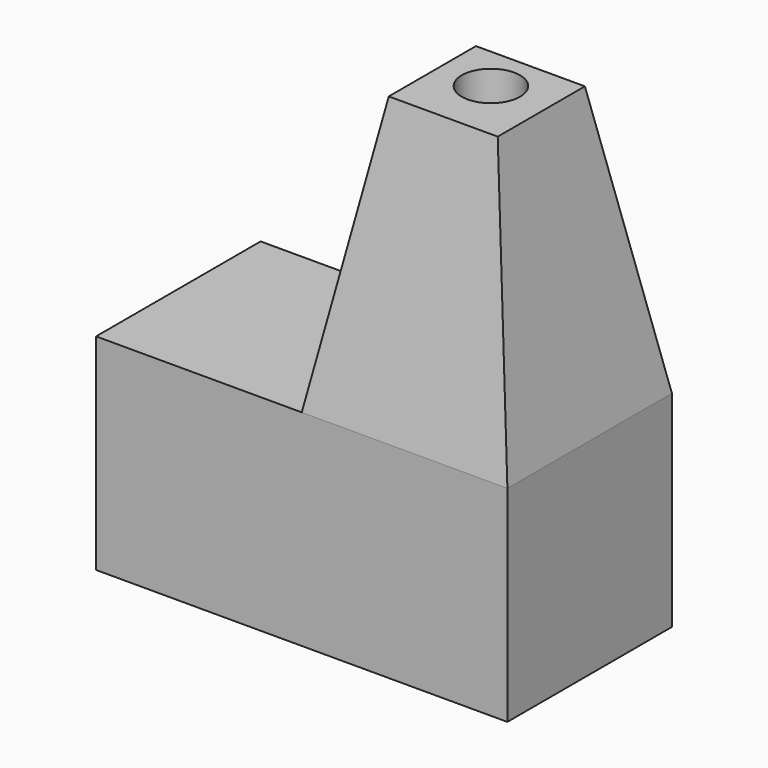
from build123d import *

# Parameters (mm, degrees)
F0_W     = 60
F0_H     = 30
F1_DEPTH = 30
F2_W     = 30
F2_H     = 30
F3_DEPTH = 40
F3_TAPER = 10
F4_R     = 4.2494021433
F5_DEPTH = 40


with BuildPart() as f1:
    # F0 (on Front) → F1 (new body)
    with BuildSketch(Plane.XZ):
        Rectangle(F0_W, F0_H)
    extrude(amount=F1_DEPTH)

    # F2 (on face) → F3 (join)
    with BuildSketch(Plane.XY.offset(15)):
        with Locations((15, -15)):
            Rectangle(F2_W, F2_H)
    extrude(amount=F3_DEPTH, taper=F3_TAPER)

    # F4 (on face) → F5 (cut)
    with BuildSketch(Plane.XY.offset(55)):
        with Locations((14.5341921598, -13.6707741767)):
            Circle(F4_R)
    extrude(amount=-F5_DEPTH, mode=Mode.SUBTRACT)


solid = f1.part
